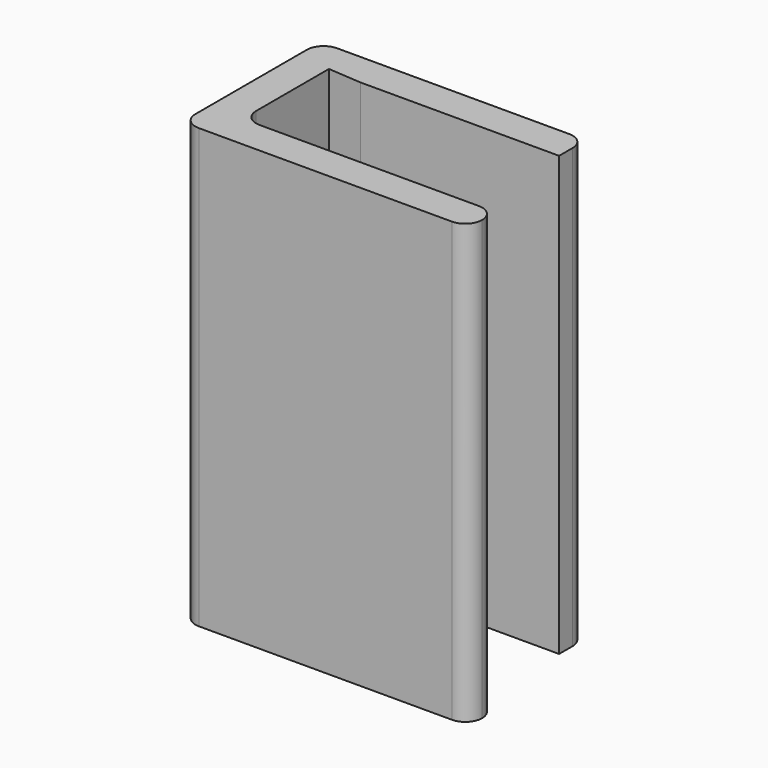
from build123d import *

# Parameters (mm, degrees)
F1_DEPTH = 26


with BuildPart() as f1:
    # F0 (on Top) → F1 (new body)
    with BuildSketch(Plane.XY):
        with BuildLine():
            ThreePointArc((-16.324504, 1), (-16.03161, 0.292893), (-15.324504, 0))
            Line((-15.324504, 0), (-0.324504, 0))
            ThreePointArc((-0.324504, 0), (0.382603, 0.292893), (0.675496, 1))
            ThreePointArc((0.675496, 1), (0.382603, 1.707107), (-0.324504, 2))
            Line((-0.324504, 2), (-13.324504, 2))
            ThreePointArc((-13.324504, 2), (-14.03161, 2.292893), (-14.324504, 3))
            Line((-14.324504, 3), (-14.324504, 8.393347))
            ThreePointArc((-14.324504, 8.393347), (-13.252645, 9.390761), (-12.334831, 8.25))
            Line((-12.334831, 8.25), (-0.564496, 8.25))
            Line((-0.564496, 8.25), (-0.564496, 8.948101))
            Line((-0.564496, 8.948101), (-0.564496, 9.25))
            ThreePointArc((-0.564496, 9.25), (-0.857389, 9.957107), (-1.564496, 10.25))
            Line((-1.564496, 10.25), (-15.324504, 10.25))
            ThreePointArc((-15.324504, 10.25), (-16.03161, 9.957107), (-16.324504, 9.25))
            Line((-16.324504, 9.25), (-16.324504, 1))
        make_face()
        with BuildLine():
            ThreePointArc((-12.334831, 8.25), (-13.252645, 9.390761), (-14.324504, 8.393347))
            Line((-14.324504, 8.393347), (-12.334831, 8.25))
        make_face()
    extrude(amount=F1_DEPTH)


solid = f1.part
